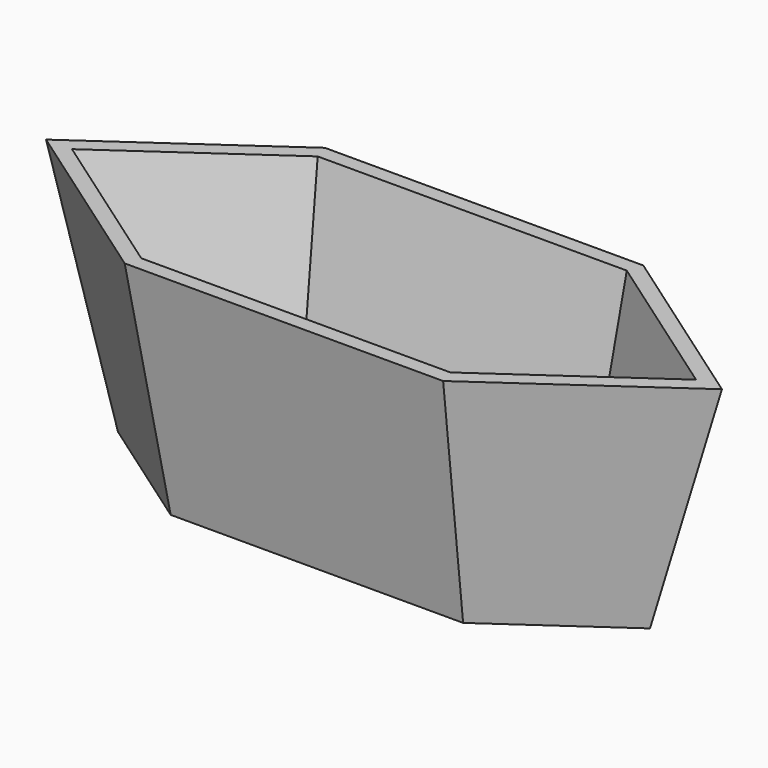
from build123d import *

# Parameters (mm, degrees)
F1_DEPTH = 40
F1_TAPER = -10
F2_T     = -2.5
F3_W     = 45.5802325159
F3_H     = 5.3462651558
F4_DEPTH = 5


with BuildPart() as f1:
    # F0 (on Top) → F1 (new body)
    with BuildSketch(Plane.XY):
        Polygon((24.8156337307, 0), (0, 0), (-25.1843662693, 0), (-45.6631673765, -14.3394109088), (-25.1843662693, -28.6788218176), (24.8156337307, -28.6788218176), (45.294434838, -14.3394109088), align=None)
    extrude(amount=F1_DEPTH, taper=F1_TAPER)

    # F2
    f2_openings = [f1.faces().sort_by_distance(p)[0] for p in [
        (-0.184366, -14.339411, 40),
    ]]
    offset(amount=F2_T, openings=f2_openings)

    # F3 (on face) → F4 (cut)
    with BuildSketch(Plane(origin=(0, 0, 0), x_dir=(-1, 0, 0), z_dir=(0, 0.984807753, -0.1736481777))):
        with Locations((0.4246877506, 4.1624491569)):
            Rectangle(F3_W, F3_H)
    extrude(amount=-F4_DEPTH, mode=Mode.SUBTRACT)


solid = f1.part
